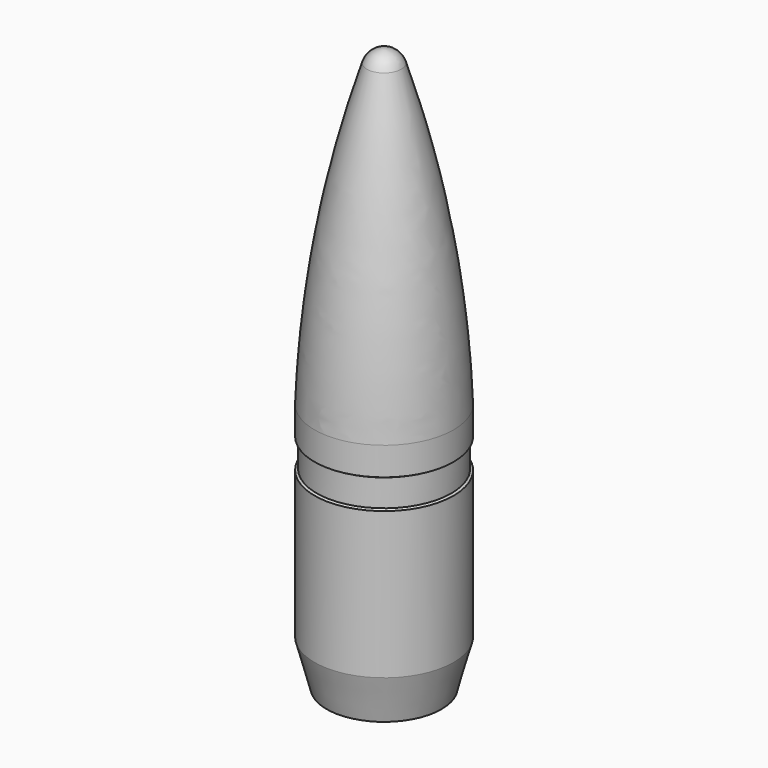
from build123d import *


with BuildPart() as f1:
    # F0 (on Front) → F1 (revolve)
    with BuildSketch(Plane.XZ):
        with BuildLine():
            Line((3.9116, 12.465647), (3.9116, 14.053147))
            ThreePointArc((3.9116, 14.053147), (3.021686, 22.606846), (0.967589, 30.957799))
            ThreePointArc((0.967589, 30.957799), (0.598921, 31.468615), (0, 31.663915))
            Line((0, 31.663915), (0, 0))
            Line((0, 0), (3.231009, 0))
            Line((3.231009, 0), (3.9116, 2.54))
            Line((3.9116, 2.54), (3.9116, 10.795))
            Line((3.9116, 10.795), (3.7846, 10.868323))
            Line((3.7846, 10.868323), (3.7846, 12.392323))
            Line((3.7846, 12.392323), (3.9116, 12.465647))
        make_face()
    revolve(axis=Axis((0, 0, 15.831957), (0, 0, 1)))


solid = f1.part
